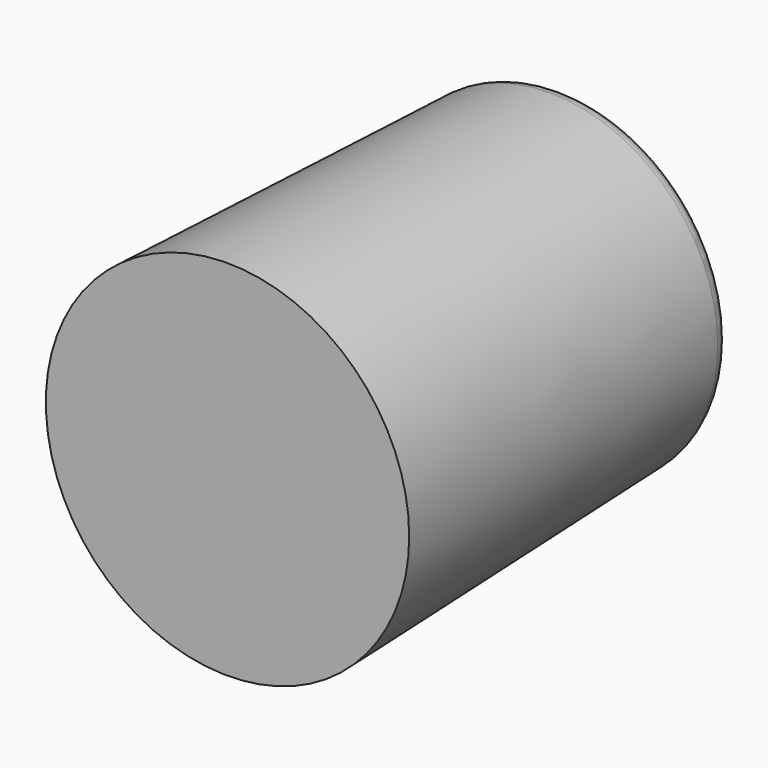
from build123d import *


with BuildPart() as part:
    # Sketch → Revolution (revolve)
    with BuildSketch(Plane.XY):
        with BuildLine():
            Line((0, 0), (0, 15))
            Line((0, 15), (5.40036, 15))
            ThreePointArc((6, 14.420791), (5.817209, 14.831552), (5.40036, 15))
            Line((6, 14.420791), (6.5, 0))
            Line((6.5, 0), (0, 0))
        make_face()
    revolve(axis=Axis((0, 0, 0), (0, 1, 0)))


solid = part.part
